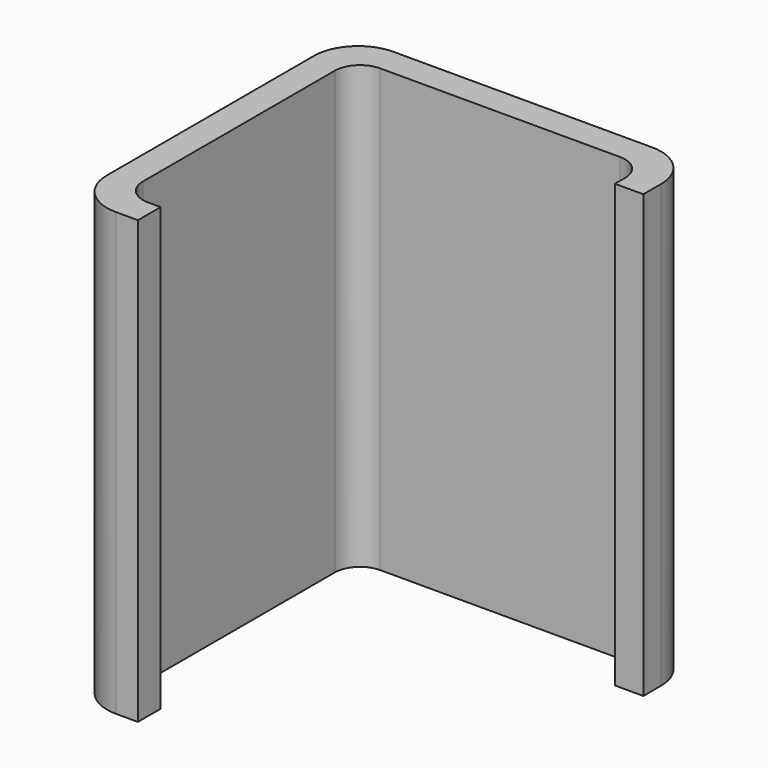
from build123d import *

# Parameters (mm, degrees)
SKETCH_W        = 55
SKETCH_H        = 55
PAD_DEPTH       = 70
SKETCH001_W     = 46
SKETCH001_H     = 46
POCKET_DEPTH    = 70
POCKET001_DEPTH = 70
FILLET_R        = 4
FILLET001_R     = 7


with BuildPart() as part:
    # Sketch → Pad (new body)
    with BuildSketch(Plane.XY):
        Rectangle(SKETCH_W, SKETCH_H)
    extrude(amount=PAD_DEPTH)

    # Sketch001 → Pocket (cut)
    with BuildSketch(Plane.XY):
        Rectangle(SKETCH001_W, SKETCH001_H)
    extrude(amount=POCKET_DEPTH, mode=Mode.SUBTRACT)

    # Sketch002 (on Face5 of Pocket) → Pocket001 (cut)
    with BuildSketch(Plane.XY.offset(70)):
        Polygon((23, -23), (-17, -23), (-17, -27.5), (27.5, -27.5), (27.5, 17), (23, 17), align=None)
    extrude(amount=-POCKET001_DEPTH, mode=Mode.SUBTRACT)

    # Fillet
    fillet_edges = [part.edges().sort_by_distance(p)[0] for p in [
        (-23, -23, 35),
        (-23, 23, 35),
        (23, 23, 35),
    ]]
    fillet(fillet_edges, radius=FILLET_R)

    # Fillet001
    fillet001_edges = [part.edges().sort_by_distance(p)[0] for p in [
        (-27.5, -27.5, 35),
        (-27.5, 27.5, 35),
        (27.5, 27.5, 35),
    ]]
    fillet(fillet001_edges, radius=FILLET001_R)


solid = part.part
